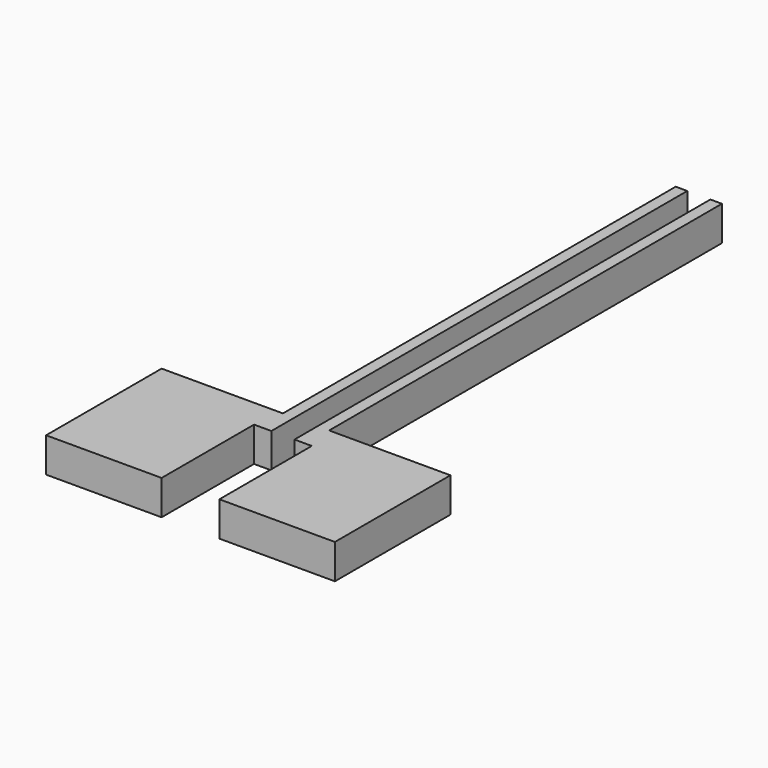
from build123d import *

# Parameters (mm, degrees)
F0_W     = 0.2
F0_H     = 1
F1_DEPTH = 1.2
F0_W_2   = 0.4
F0_H_2   = 17


with BuildPart() as f1:
    # F0 (on Top) → F1 (new body)
    with BuildSketch(Plane.XY):
        Polygon((0.8, -6), (0.8, 11), (0.4, 11), (0.4, 0), (0.4, -6), (0.5, -6), align=None)
        Polygon((5, -6), (1, -6), (1, -7), (1, -11), (5, -11), align=None)
        with Locations((0.9, -6.5)):
            Rectangle(F0_W, F0_H)
        Polygon((0.8, -7), (0.8, -6), (0.5, -6), (0.4, -6), (0.4, -7), align=None)
    extrude(amount=F1_DEPTH)


with BuildPart() as f1b:
    # F0 (on Top) → F1, piece 2 (new body)
    with BuildSketch(Plane.XY):
        with Locations((-0.6, 2.5)):
            Rectangle(F0_W_2, F0_H_2)
        Polygon((-1, -7), (-1, -6), (-5, -6), (-5, -11), (-1, -11), align=None)
        with Locations((-0.9, -6.5)):
            Rectangle(F0_W, F0_H)
        with Locations((-0.6, -6.5)):
            Rectangle(F0_W_2, F0_H)
    extrude(amount=F1_DEPTH)


solid = Compound([f1.part, f1b.part])
